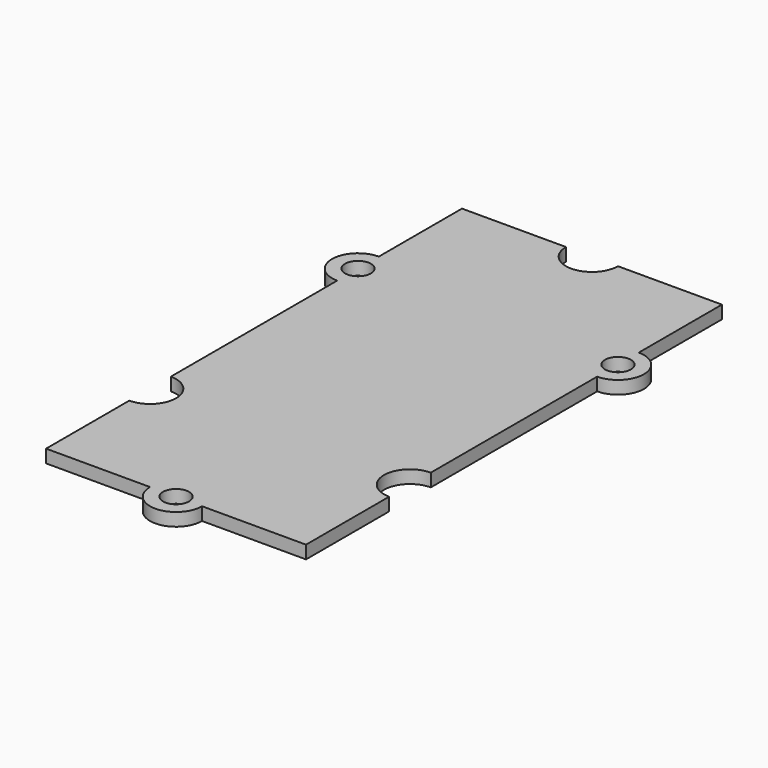
from build123d import *

# Parameters (mm, degrees)
F1_DEPTH = 1
F2_D     = 4
F3_D     = 2


with BuildPart() as f1:
    # F0 (on Top) → F1 (new body)
    with BuildSketch(Plane.XY):
        with BuildLine():
            Line((10, 12), (10, 20))
            Line((10, 20), (2, 20))
            ThreePointArc((2, 20), (0, 18), (-2, 20))
            Line((-2, 20), (-10, 20))
            Line((-10, 20), (-10, 12))
            Line((-10, 12), (-10, 8))
            Line((-10, 8), (-10, -8))
            ThreePointArc((-10, -8), (-8.5857864376, -8.5857864376), (-8, -10))
            ThreePointArc((-8, -10), (-8.5857864376, -11.4142135624), (-10, -12))
            Line((-10, -12), (-10, -20))
            Line((-10, -20), (-2, -20))
            Line((-2, -20), (2, -20))
            Line((2, -20), (10, -20))
            Line((10, -20), (10, -12))
            ThreePointArc((10, -12), (8, -10), (10, -8))
            Line((10, -8), (10, 8))
            Line((10, 8), (10, 12))
        make_face()
        with BuildLine():
            ThreePointArc((-2, 20), (0, 18), (2, 20))
            Line((2, 20), (-2, 20))
        make_face()
        with BuildLine():
            Line((-2, 20), (2, 20))
            ThreePointArc((2, 20), (0, 22), (-2, 20))
        make_face()
        with BuildLine():
            ThreePointArc((10, 8), (12, 10), (10, 12))
            Line((10, 12), (10, 8))
        make_face()
        with BuildLine():
            ThreePointArc((12, -10), (11.4142135624, -8.5857864376), (10, -8))
            Line((10, -8), (10, -12))
            ThreePointArc((10, -12), (11.4142135624, -11.4142135624), (12, -10))
        make_face()
        with BuildLine():
            Line((10, -12), (10, -8))
            ThreePointArc((10, -8), (8, -10), (10, -12))
        make_face()
        with BuildLine():
            Line((-10, 8), (-10, 12))
            ThreePointArc((-10, 12), (-12, 10), (-10, 8))
        make_face()
        with BuildLine():
            ThreePointArc((-8, -10), (-8.5857864376, -8.5857864376), (-10, -8))
            Line((-10, -8), (-10, -12))
            ThreePointArc((-10, -12), (-8.5857864376, -11.4142135624), (-8, -10))
        make_face()
        with BuildLine():
            Line((-10, -12), (-10, -8))
            ThreePointArc((-10, -8), (-12, -10), (-10, -12))
        make_face()
        with BuildLine():
            ThreePointArc((-2, -20), (0, -22), (2, -20))
            Line((2, -20), (-2, -20))
        make_face()
    extrude(amount=F1_DEPTH)

    # F2 (through all)
    with Locations(Plane(origin=(0, 0, 0), x_dir=(1, 0, 0), z_dir=(0, 0, -1))):
        with Locations((0, -20), (-10, 10), (10, 10)):
            Hole(F2_D / 2)

    # F3 (through all)
    with Locations(Plane(origin=(0, 0, 0), x_dir=(1, 0, 0), z_dir=(0, 0, -1))):
        with Locations((-10, -10), (10, -10), (0, 20)):
            Hole(F3_D / 2)


solid = f1.part
